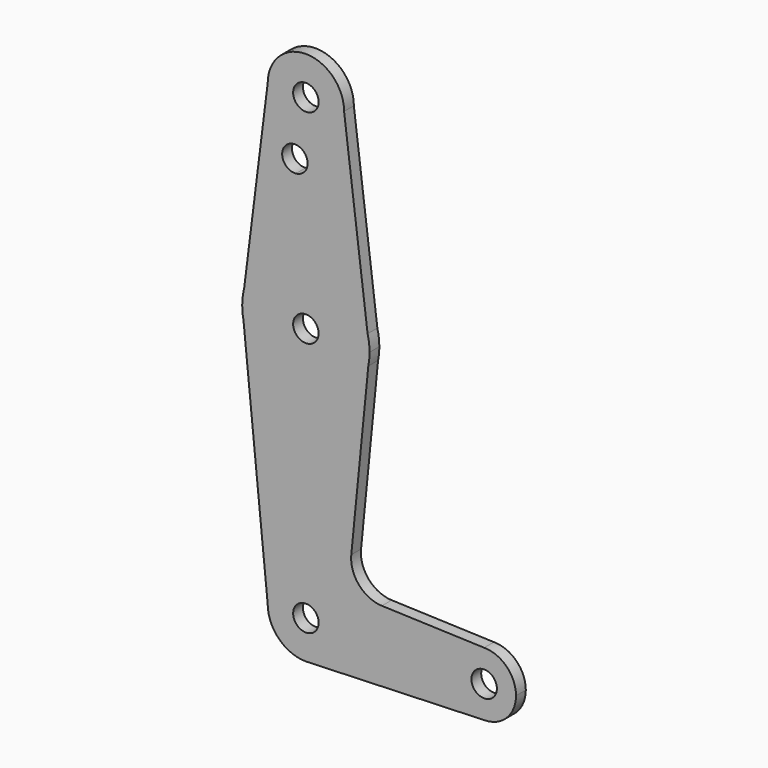
from build123d import *

# Parameters (mm, degrees)
F0_R     = 3.175
F1_DEPTH = 3.048


with BuildPart() as f1:
    # F0 (on Front) → F1 (new body)
    with BuildSketch(Plane.XZ):
        with BuildLine():
            ThreePointArc((-65.1946094573, 59.6804388255), (-55.6696094573, 50.1554388255), (-46.1446094573, 59.6804388255))
            ThreePointArc((-46.1446094573, 59.6804388255), (-55.6696094573, 69.2054388255), (-65.1946094573, 59.6804388255))
        make_face()
        with Locations((-55.6696094573, 59.6804388255)):
            Circle(F0_R, mode=Mode.SUBTRACT)
        with BuildLine():
            Line((-40.2830709957, 12.7881311332), (-46.1446094573, 59.6804388255))
            ThreePointArc((-46.1446094573, 59.6804388255), (-55.6696094573, 50.1554388255), (-65.1946094573, 59.6804388255))
            Line((-65.1946094573, 59.6804388255), (-71.0561479188, 12.7881311332))
            ThreePointArc((-71.0561479188, 12.7881311332), (-55.6696094573, 24.7554388255), (-40.2830709957, 12.7881311332))
        make_face()
        with BuildLine():
            ThreePointArc((-58.1726217749, 42.1365776479), (-60.7387017761, 47.4617951436), (-55.2359131227, 45.3026228519))
            ThreePointArc((-55.2359131227, 45.3026228519), (-56.0831244694, 43.1434505602), (-58.1726217749, 42.1365776479))
        make_face(mode=Mode.SUBTRACT)
        with BuildLine():
            Line((-39.7946094573, 8.8804388255), (-40.2830709957, 12.7881311332))
            ThreePointArc((-40.2830709957, 12.7881311332), (-55.6696094573, 24.7554388255), (-71.0561479188, 12.7881311332))
            Line((-71.0561479188, 12.7881311332), (-71.5446094573, 8.8804388255))
            Line((-71.5446094573, 8.8804388255), (-71.2302530216, 5.7368744691))
            ThreePointArc((-71.2302530216, 5.7368744691), (-55.65802188, -6.9945569455), (-40.1043933358, 5.7595940532))
            Line((-40.1043933358, 5.7595940532), (-39.7946094573, 8.8804388255))
        make_face()
        with BuildLine():
            ThreePointArc((-55.9079008051, 12.0464840295), (-53.5104371655, 11.2082274788), (-52.4946094573, 8.8804388255))
            ThreePointArc((-52.4946094573, 8.8804388255), (-57.828781749, 6.5526501721), (-55.9079008051, 12.0464840295))
        make_face(mode=Mode.SUBTRACT)
        with BuildLine():
            ThreePointArc((-39.7946094573, 8.8804388255), (-39.9171981644, 10.8494902371), (-40.2830709957, 12.7881311332))
            Line((-40.2830709957, 12.7881311332), (-39.7946094573, 8.8804388255))
        make_face()
        with BuildLine():
            Line((-71.5446094573, 8.8804388255), (-71.0561479188, 12.7881311332))
            ThreePointArc((-71.0561479188, 12.7881311332), (-71.4220207501, 10.8494902371), (-71.5446094573, 8.8804388255))
        make_face()
        with BuildLine():
            ThreePointArc((-40.1043933358, 5.7595940532), (-39.8722452637, 7.3123477771), (-39.7946094573, 8.8804388255))
            Line((-39.7946094573, 8.8804388255), (-40.1043933358, 5.7595940532))
        make_face()
        with BuildLine():
            Line((-71.2302530216, 5.7368744691), (-71.5446094573, 8.8804388255))
            ThreePointArc((-71.5446094573, 8.8804388255), (-71.4658248518, 7.300817286), (-71.2302530216, 5.7368744691))
        make_face()
        with BuildLine():
            Line((-44.3527118318, -37.03909073), (-40.1043933358, 5.7595940532))
            ThreePointArc((-40.1043933358, 5.7595940532), (-55.65802188, -6.9945569455), (-71.2302530216, 5.7368744691))
            Line((-71.2302530216, 5.7368744691), (-65.1946094573, -54.6195611745))
            ThreePointArc((-65.1946094573, -54.6195611745), (-55.6696094573, -45.0945611745), (-46.1446094573, -54.6195611745))
            ThreePointArc((-46.1446094573, -54.6195611745), (-48.6996052896, -61.1114535721), (-54.9938833475, -64.1205621336))
            Line((-54.9938833475, -64.1205621336), (-10.9377441645, -62.555867398))
            ThreePointArc((-10.9377441645, -62.555867398), (-19.1596684146, -54.7605160264), (-11.2196094573, -46.6782511745))
            Line((-11.2196094573, -46.6782511745), (-36.7244665024, -45.7695495535))
            ThreePointArc((-36.7244665024, -45.7695495535), (-42.4282318887, -43.0553969702), (-44.3527118318, -37.03909073))
        make_face()
        with BuildLine():
            ThreePointArc((-46.1446094573, -54.6195611745), (-55.6696094573, -45.0945611745), (-65.1946094573, -54.6195611745))
            ThreePointArc((-65.1946094573, -54.6195611745), (-62.4048015481, -61.3547532653), (-55.6696094573, -64.1445611745))
            Line((-55.6696094573, -64.1445611745), (-54.9938833475, -64.1205621336))
            ThreePointArc((-54.9938833475, -64.1205621336), (-48.6996052896, -61.1114535721), (-46.1446094573, -54.6195611745))
        make_face()
        with Locations((-55.6696094573, -54.6195611745)):
            Circle(F0_R, mode=Mode.SUBTRACT)
        with BuildLine():
            Line((-54.9938833475, -64.1205621336), (-55.6696094573, -64.1445611745))
            ThreePointArc((-55.6696094573, -64.1445611745), (-55.3315333825, -64.1385595235), (-54.9938833475, -64.1205621336))
        make_face()
        with BuildLine():
            ThreePointArc((-3.2782994573, -54.6195611745), (-5.6042553047, -49.004207022), (-11.2196094573, -46.6782511745))
            ThreePointArc((-11.2196094573, -46.6782511745), (-19.1596684146, -54.7605160264), (-10.9377441645, -62.555867398))
            ThreePointArc((-10.9377441645, -62.555867398), (-5.5054697939, -60.1343605747), (-3.2782994573, -54.6195611745))
        make_face()
        with Locations((-11.2196094573, -54.6195611745)):
            Circle(F0_R, mode=Mode.SUBTRACT)
        with BuildLine():
            Line((-40.2830709957, 12.7881311332), (-46.1446094573, 59.6804388255))
            ThreePointArc((-46.1446094573, 59.6804388255), (-55.6696094573, 50.1554388255), (-65.1946094573, 59.6804388255))
            Line((-65.1946094573, 59.6804388255), (-71.0561479188, 12.7881311332))
            ThreePointArc((-71.0561479188, 12.7881311332), (-55.6696094573, 24.7554388255), (-40.2830709957, 12.7881311332))
        make_face()
        with BuildLine():
            ThreePointArc((-58.1726217749, 42.1365776479), (-60.7387017761, 47.4617951436), (-55.2359131227, 45.3026228519))
            ThreePointArc((-55.2359131227, 45.3026228519), (-56.0831244694, 43.1434505602), (-58.1726217749, 42.1365776479))
        make_face(mode=Mode.SUBTRACT)
    extrude(amount=-F1_DEPTH)


solid = f1.part
